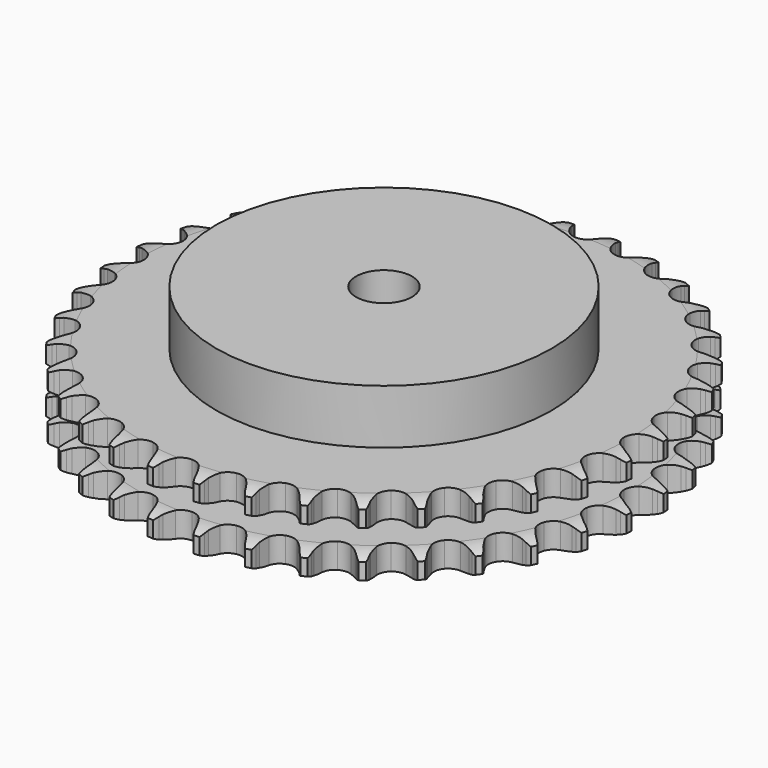
from build123d import *

# Parameters (mm, degrees)
PAD_DEPTH         = 25.5
SKETCH001_R       = 60
PAD001_DEPTH      = 45
SKETCH002_R       = 10
POCKET_DEPTH      = 0.001
POCKET_DEPTH_BACK = 45.001


with BuildPart() as part:
    # Sprocket → Pad (new body)
    with BuildSketch(Plane.XY):
        with BuildLine():
            ThreePointArc((-8.372787, 95.701394), (-7.235012, 94.299793), (-6.429379, 92.684252))
            Line((-6.429379, 92.684252), (-5.933775, 91.338848))
            ThreePointArc((-5.933775, 91.338848), (-5.149699, 89.605003), (-4.125721, 88.001114))
            ThreePointArc((-4.125721, 88.001114), (-2.308399, 86.476199), (0, 85.929099))
            ThreePointArc((0, 85.929099), (2.308399, 86.476199), (4.125721, 88.001114))
            ThreePointArc((4.125721, 88.001114), (5.149699, 89.605003), (5.933775, 91.338848))
            Line((5.933775, 91.338848), (6.429379, 92.684252))
            ThreePointArc((6.429379, 92.684252), (7.235012, 94.299793), (8.372787, 95.701394))
            ThreePointArc((8.372787, 95.701394), (9.249892, 94.123514), (9.762749, 92.39262))
            Line((9.762749, 92.39262), (10.017197, 90.981595))
            ThreePointArc((10.017197, 90.981595), (10.488282, 89.137938), (11.218191, 87.380603))
            ThreePointArc((11.218191, 87.380603), (12.743106, 85.563281), (14.921431, 84.623643))
            ThreePointArc((14.921431, 84.623643), (17.289763, 84.761582), (19.344275, 85.947755))
            Line((19.344275, 85.947755), (21.704452, 88.920817))
            ThreePointArc((21.704452, 88.920817), (22.04856, 89.550022), (22.426154, 90.15972))
            ThreePointArc((22.426154, 90.15972), (23.500083, 91.610821), (24.863958, 92.793556))
            ThreePointArc((24.863958, 92.793556), (25.453742, 91.08734), (25.658241, 89.293685))
            Line((25.658241, 89.293685), (25.663802, 87.859912))
            ThreePointArc((25.663802, 87.859912), (25.807582, 85.962461), (26.221244, 84.105077))
            ThreePointArc((26.221244, 84.105077), (27.407417, 82.050565), (29.389483, 80.74694))
            ThreePointArc((29.389483, 80.74694), (31.745787, 80.471528), (33.975063, 81.282918))
            Line((33.975063, 81.282918), (36.81565, 83.800971))
            ThreePointArc((36.81565, 83.800971), (37.263791, 84.360863), (37.741521, 84.89573))
            ThreePointArc((37.741521, 84.89573), (39.051116, 86.1383), (40.599651, 87.066232))
            ThreePointArc((40.599651, 87.066232), (40.884193, 85.283522), (40.77412, 83.481606))
            Line((40.77412, 83.481606), (40.530625, 82.06865))
            ThreePointArc((40.530625, 82.06865), (40.342732, 80.175059), (40.427578, 78.27406))
            ThreePointArc((40.427578, 78.27406), (41.238968, 76.044785), (42.964549, 74.416783))
            ThreePointArc((42.964549, 74.416783), (45.237232, 73.736386), (47.573536, 74.14834))
            Line((47.573536, 74.14834), (50.808224, 76.134876))
            ThreePointArc((50.808224, 76.134876), (51.34678, 76.608443), (51.910132, 77.052227))
            ThreePointArc((51.910132, 77.052227), (53.415601, 78.048511), (55.101743, 78.693445))
            ThreePointArc((55.101743, 78.693445), (55.072398, 76.888408), (54.651099, 75.132981))
            Line((54.651099, 75.132981), (54.165945, 73.783774))
            ThreePointArc((54.165945, 73.783774), (53.652088, 71.951577), (53.40554, 70.064726))
            ThreePointArc((53.40554, 70.064726), (53.817494, 67.728422), (55.23416, 65.825509))
            ThreePointArc((55.23416, 65.825509), (57.354165, 64.760802), (59.726511, 64.760802))
            Line((59.726511, 64.760802), (63.257015, 66.155461))
            ThreePointArc((63.257015, 66.155461), (63.869624, 66.528314), (64.501479, 66.867531))
            ThreePointArc((64.501479, 66.867531), (66.157079, 67.587257), (67.929597, 67.929597))
            ThreePointArc((67.929597, 67.929597), (67.587257, 66.157079), (66.867531, 64.501479))
            Line((66.867531, 64.501479), (66.155461, 63.257015))
            ThreePointArc((66.155461, 63.257015), (65.331252, 61.541884), (64.760802, 59.726511))
            ThreePointArc((64.760802, 59.726511), (64.760802, 57.354165), (65.825509, 55.23416))
            ThreePointArc((65.825509, 55.23416), (67.728422, 53.817494), (70.064726, 53.40554))
            Line((70.064726, 53.40554), (73.783774, 54.165945))
            ThreePointArc((73.783774, 54.165945), (74.451821, 54.426755), (75.132981, 54.651099))
            ThreePointArc((75.132981, 54.651099), (76.888408, 55.072398), (78.693445, 55.101743))
            ThreePointArc((78.693445, 55.101743), (78.048511, 53.415601), (77.052227, 51.910132))
            Line((77.052227, 51.910132), (76.134876, 50.808224))
            ThreePointArc((76.134876, 50.808224), (75.02536, 49.262272), (74.14834, 47.573536))
            ThreePointArc((74.14834, 47.573536), (73.736386, 45.237232), (74.416783, 42.964549))
            ThreePointArc((74.416783, 42.964549), (76.044785, 41.238968), (78.27406, 40.427578))
            Line((78.27406, 40.427578), (82.06865, 40.530625))
            ThreePointArc((82.06865, 40.530625), (82.771838, 40.671468), (83.481606, 40.77412))
            ThreePointArc((83.481606, 40.77412), (85.283522, 40.884193), (87.066232, 40.599651))
            ThreePointArc((87.066232, 40.599651), (86.1383, 39.051116), (84.89573, 37.741521))
            Line((84.89573, 37.741521), (83.800971, 36.81565))
            ThreePointArc((83.800971, 36.81565), (82.43986, 35.48585), (81.282918, 33.975063))
            ThreePointArc((81.282918, 33.975063), (80.471528, 31.745787), (80.74694, 29.389483))
            ThreePointArc((80.74694, 29.389483), (82.050565, 27.407417), (84.105077, 26.221244))
            Line((84.105077, 26.221244), (87.859912, 25.663802))
            ThreePointArc((87.859912, 25.663802), (88.576874, 25.680398), (89.293685, 25.658241))
            ThreePointArc((89.293685, 25.658241), (91.08734, 25.453742), (92.793556, 24.863958))
            ThreePointArc((92.793556, 24.863958), (91.610821, 23.500083), (90.15972, 22.426154))
            Line((90.15972, 22.426154), (88.920817, 21.704452))
            ThreePointArc((88.920817, 21.704452), (87.349466, 20.631209), (85.947755, 19.344275))
            ThreePointArc((85.947755, 19.344275), (84.761582, 17.289763), (84.623643, 14.921431))
            ThreePointArc((84.623643, 14.921431), (85.563281, 12.743106), (87.380603, 11.218191))
            Line((87.380603, 11.218191), (90.981595, 10.017197))
            ThreePointArc((90.981595, 10.017197), (91.690546, 9.909042), (92.39262, 9.762749))
            ThreePointArc((92.39262, 9.762749), (94.123514, 9.249892), (95.701394, 8.372787))
            ThreePointArc((95.701394, 8.372787), (94.299793, 7.235012), (92.684252, 6.429379))
            Line((92.684252, 6.429379), (91.338848, 5.933775))
            ThreePointArc((91.338848, 5.933775), (89.605003, 5.149699), (88.001114, 4.125721))
            ThreePointArc((88.001114, 4.125721), (86.476199, 2.308399), (85.929099, 0))
            ThreePointArc((85.929099, 0), (86.476199, -2.308399), (88.001114, -4.125721))
            Line((88.001114, -4.125721), (91.338848, -5.933775))
            ThreePointArc((91.338848, -5.933775), (92.018248, -6.163395), (92.684252, -6.429379))
            ThreePointArc((92.684252, -6.429379), (94.299793, -7.235012), (95.701394, -8.372787))
            ThreePointArc((95.701394, -8.372787), (94.123514, -9.249892), (92.39262, -9.762749))
            Line((92.39262, -9.762749), (90.981595, -10.017197))
            ThreePointArc((90.981595, -10.017197), (89.137938, -10.488282), (87.380603, -11.218191))
            ThreePointArc((87.380603, -11.218191), (85.563281, -12.743106), (84.623643, -14.921431))
            ThreePointArc((84.623643, -14.921431), (84.761582, -17.289763), (85.947755, -19.344275))
            Line((85.947755, -19.344275), (88.920817, -21.704452))
            ThreePointArc((88.920817, -21.704452), (89.550022, -22.04856), (90.15972, -22.426154))
            ThreePointArc((90.15972, -22.426154), (91.610821, -23.500083), (92.793556, -24.863958))
            ThreePointArc((92.793556, -24.863958), (91.08734, -25.453742), (89.293685, -25.658241))
            Line((89.293685, -25.658241), (87.859912, -25.663802))
            ThreePointArc((87.859912, -25.663802), (85.962461, -25.807582), (84.105077, -26.221244))
            ThreePointArc((84.105077, -26.221244), (82.050565, -27.407417), (80.74694, -29.389483))
            ThreePointArc((80.74694, -29.389483), (80.471528, -31.745787), (81.282918, -33.975063))
            Line((81.282918, -33.975063), (83.800971, -36.81565))
            ThreePointArc((83.800971, -36.81565), (84.360863, -37.263791), (84.89573, -37.741521))
            ThreePointArc((84.89573, -37.741521), (86.1383, -39.051116), (87.066232, -40.599651))
            ThreePointArc((87.066232, -40.599651), (85.283522, -40.884193), (83.481606, -40.77412))
            Line((83.481606, -40.77412), (82.06865, -40.530625))
            ThreePointArc((82.06865, -40.530625), (80.175059, -40.342732), (78.27406, -40.427578))
            ThreePointArc((78.27406, -40.427578), (76.044785, -41.238968), (74.416783, -42.964549))
            ThreePointArc((74.416783, -42.964549), (73.736386, -45.237232), (74.14834, -47.573536))
            Line((74.14834, -47.573536), (76.134876, -50.808224))
            ThreePointArc((76.134876, -50.808224), (76.608443, -51.34678), (77.052227, -51.910132))
            ThreePointArc((77.052227, -51.910132), (78.048511, -53.415601), (78.693445, -55.101743))
            ThreePointArc((78.693445, -55.101743), (76.888408, -55.072398), (75.132981, -54.651099))
            Line((75.132981, -54.651099), (73.783774, -54.165945))
            ThreePointArc((73.783774, -54.165945), (71.951577, -53.652088), (70.064726, -53.40554))
            ThreePointArc((70.064726, -53.40554), (67.728422, -53.817494), (65.825509, -55.23416))
            ThreePointArc((65.825509, -55.23416), (64.760802, -57.354165), (64.760802, -59.726511))
            Line((64.760802, -59.726511), (66.155461, -63.257015))
            ThreePointArc((66.155461, -63.257015), (66.528314, -63.869624), (66.867531, -64.501479))
            ThreePointArc((66.867531, -64.501479), (67.587257, -66.157079), (67.929597, -67.929597))
            ThreePointArc((67.929597, -67.929597), (66.157079, -67.587257), (64.501479, -66.867531))
            Line((64.501479, -66.867531), (63.257015, -66.155461))
            ThreePointArc((63.257015, -66.155461), (61.541884, -65.331252), (59.726511, -64.760802))
            ThreePointArc((59.726511, -64.760802), (57.354165, -64.760802), (55.23416, -65.825509))
            ThreePointArc((55.23416, -65.825509), (53.817494, -67.728422), (53.40554, -70.064726))
            Line((53.40554, -70.064726), (54.165945, -73.783774))
            ThreePointArc((54.165945, -73.783774), (54.426755, -74.451821), (54.651099, -75.132981))
            ThreePointArc((54.651099, -75.132981), (55.072398, -76.888408), (55.101743, -78.693445))
            ThreePointArc((55.101743, -78.693445), (53.415601, -78.048511), (51.910132, -77.052227))
            Line((51.910132, -77.052227), (50.808224, -76.134876))
            ThreePointArc((50.808224, -76.134876), (49.262272, -75.02536), (47.573536, -74.14834))
            ThreePointArc((47.573536, -74.14834), (45.237232, -73.736386), (42.964549, -74.416783))
            ThreePointArc((42.964549, -74.416783), (41.238968, -76.044785), (40.427578, -78.27406))
            Line((40.427578, -78.27406), (40.530625, -82.06865))
            ThreePointArc((40.530625, -82.06865), (40.671468, -82.771838), (40.77412, -83.481606))
            ThreePointArc((40.77412, -83.481606), (40.884193, -85.283522), (40.599651, -87.066232))
            ThreePointArc((40.599651, -87.066232), (39.051116, -86.1383), (37.741521, -84.89573))
            Line((37.741521, -84.89573), (36.81565, -83.800971))
            ThreePointArc((36.81565, -83.800971), (35.48585, -82.43986), (33.975063, -81.282918))
            ThreePointArc((33.975063, -81.282918), (31.745787, -80.471528), (29.389483, -80.74694))
            ThreePointArc((29.389483, -80.74694), (27.407417, -82.050565), (26.221244, -84.105077))
            Line((26.221244, -84.105077), (25.663802, -87.859912))
            ThreePointArc((25.663802, -87.859912), (25.680398, -88.576874), (25.658241, -89.293685))
            ThreePointArc((25.658241, -89.293685), (25.453742, -91.08734), (24.863958, -92.793556))
            ThreePointArc((24.863958, -92.793556), (23.500083, -91.610821), (22.426154, -90.15972))
            Line((22.426154, -90.15972), (21.704452, -88.920817))
            ThreePointArc((21.704452, -88.920817), (20.631209, -87.349466), (19.344275, -85.947755))
            ThreePointArc((19.344275, -85.947755), (17.289763, -84.761582), (14.921431, -84.623643))
            ThreePointArc((14.921431, -84.623643), (12.743106, -85.563281), (11.218191, -87.380603))
            Line((11.218191, -87.380603), (10.017197, -90.981595))
            ThreePointArc((10.017197, -90.981595), (9.909042, -91.690546), (9.762749, -92.39262))
            ThreePointArc((9.762749, -92.39262), (9.249892, -94.123514), (8.372787, -95.701394))
            ThreePointArc((8.372787, -95.701394), (7.235012, -94.299793), (6.429379, -92.684252))
            Line((6.429379, -92.684252), (5.933775, -91.338848))
            ThreePointArc((5.933775, -91.338848), (5.149699, -89.605003), (4.125721, -88.001114))
            ThreePointArc((4.125721, -88.001114), (2.308399, -86.476199), (0, -85.929099))
            ThreePointArc((0, -85.929099), (-2.308399, -86.476199), (-4.125721, -88.001114))
            Line((-4.125721, -88.001114), (-5.933775, -91.338848))
            ThreePointArc((-5.933775, -91.338848), (-6.163395, -92.018248), (-6.429379, -92.684252))
            ThreePointArc((-6.429379, -92.684252), (-7.235012, -94.299793), (-8.372787, -95.701394))
            ThreePointArc((-8.372787, -95.701394), (-9.249892, -94.123514), (-9.762749, -92.39262))
            Line((-9.762749, -92.39262), (-10.017197, -90.981595))
            ThreePointArc((-10.017197, -90.981595), (-10.488282, -89.137938), (-11.218191, -87.380603))
            ThreePointArc((-11.218191, -87.380603), (-12.743106, -85.563281), (-14.921431, -84.623643))
            ThreePointArc((-14.921431, -84.623643), (-17.289763, -84.761582), (-19.344275, -85.947755))
            Line((-19.344275, -85.947755), (-21.704452, -88.920817))
            ThreePointArc((-21.704452, -88.920817), (-22.04856, -89.550022), (-22.426154, -90.15972))
            ThreePointArc((-22.426154, -90.15972), (-23.500083, -91.610821), (-24.863958, -92.793556))
            ThreePointArc((-24.863958, -92.793556), (-25.453742, -91.08734), (-25.658241, -89.293685))
            Line((-25.658241, -89.293685), (-25.663802, -87.859912))
            ThreePointArc((-25.663802, -87.859912), (-25.807582, -85.962461), (-26.221244, -84.105077))
            ThreePointArc((-26.221244, -84.105077), (-27.407417, -82.050565), (-29.389483, -80.74694))
            ThreePointArc((-29.389483, -80.74694), (-31.745787, -80.471528), (-33.975063, -81.282918))
            Line((-33.975063, -81.282918), (-36.81565, -83.800971))
            ThreePointArc((-36.81565, -83.800971), (-37.263791, -84.360863), (-37.741521, -84.89573))
            ThreePointArc((-37.741521, -84.89573), (-39.051116, -86.1383), (-40.599651, -87.066232))
            ThreePointArc((-40.599651, -87.066232), (-40.884193, -85.283522), (-40.77412, -83.481606))
            Line((-40.77412, -83.481606), (-40.530625, -82.06865))
            ThreePointArc((-40.530625, -82.06865), (-40.342732, -80.175059), (-40.427578, -78.27406))
            ThreePointArc((-40.427578, -78.27406), (-41.238968, -76.044785), (-42.964549, -74.416783))
            ThreePointArc((-42.964549, -74.416783), (-45.237232, -73.736386), (-47.573536, -74.14834))
            Line((-47.573536, -74.14834), (-50.808224, -76.134876))
            ThreePointArc((-50.808224, -76.134876), (-51.34678, -76.608443), (-51.910132, -77.052227))
            ThreePointArc((-51.910132, -77.052227), (-53.415601, -78.048511), (-55.101743, -78.693445))
            ThreePointArc((-55.101743, -78.693445), (-55.072398, -76.888408), (-54.651099, -75.132981))
            Line((-54.651099, -75.132981), (-54.165945, -73.783774))
            ThreePointArc((-54.165945, -73.783774), (-53.652088, -71.951577), (-53.40554, -70.064726))
            ThreePointArc((-53.40554, -70.064726), (-53.817494, -67.728422), (-55.23416, -65.825509))
            ThreePointArc((-55.23416, -65.825509), (-57.354165, -64.760802), (-59.726511, -64.760802))
            Line((-59.726511, -64.760802), (-63.257015, -66.155461))
            ThreePointArc((-63.257015, -66.155461), (-63.869624, -66.528314), (-64.501479, -66.867531))
            ThreePointArc((-64.501479, -66.867531), (-66.157079, -67.587257), (-67.929597, -67.929597))
            ThreePointArc((-67.929597, -67.929597), (-67.587257, -66.157079), (-66.867531, -64.501479))
            Line((-66.867531, -64.501479), (-66.155461, -63.257015))
            ThreePointArc((-66.155461, -63.257015), (-65.331252, -61.541884), (-64.760802, -59.726511))
            ThreePointArc((-64.760802, -59.726511), (-64.760802, -57.354165), (-65.825509, -55.23416))
            ThreePointArc((-65.825509, -55.23416), (-67.728422, -53.817494), (-70.064726, -53.40554))
            Line((-70.064726, -53.40554), (-73.783774, -54.165945))
            ThreePointArc((-73.783774, -54.165945), (-74.451821, -54.426755), (-75.132981, -54.651099))
            ThreePointArc((-75.132981, -54.651099), (-76.888408, -55.072398), (-78.693445, -55.101743))
            ThreePointArc((-78.693445, -55.101743), (-78.048511, -53.415601), (-77.052227, -51.910132))
            Line((-77.052227, -51.910132), (-76.134876, -50.808224))
            ThreePointArc((-76.134876, -50.808224), (-75.02536, -49.262272), (-74.14834, -47.573536))
            ThreePointArc((-74.14834, -47.573536), (-73.736386, -45.237232), (-74.416783, -42.964549))
            ThreePointArc((-74.416783, -42.964549), (-76.044785, -41.238968), (-78.27406, -40.427578))
            Line((-78.27406, -40.427578), (-82.06865, -40.530625))
            ThreePointArc((-82.06865, -40.530625), (-82.771838, -40.671468), (-83.481606, -40.77412))
            ThreePointArc((-83.481606, -40.77412), (-85.283522, -40.884193), (-87.066232, -40.599651))
            ThreePointArc((-87.066232, -40.599651), (-86.1383, -39.051116), (-84.89573, -37.741521))
            Line((-84.89573, -37.741521), (-83.800971, -36.81565))
            ThreePointArc((-83.800971, -36.81565), (-82.43986, -35.48585), (-81.282918, -33.975063))
            ThreePointArc((-81.282918, -33.975063), (-80.471528, -31.745787), (-80.74694, -29.389483))
            ThreePointArc((-80.74694, -29.389483), (-82.050565, -27.407417), (-84.105077, -26.221244))
            Line((-84.105077, -26.221244), (-87.859912, -25.663802))
            ThreePointArc((-87.859912, -25.663802), (-88.576874, -25.680398), (-89.293685, -25.658241))
            ThreePointArc((-89.293685, -25.658241), (-91.08734, -25.453742), (-92.793556, -24.863958))
            ThreePointArc((-92.793556, -24.863958), (-91.610821, -23.500083), (-90.15972, -22.426154))
            Line((-90.15972, -22.426154), (-88.920817, -21.704452))
            ThreePointArc((-88.920817, -21.704452), (-87.349466, -20.631209), (-85.947755, -19.344275))
            ThreePointArc((-85.947755, -19.344275), (-84.761582, -17.289763), (-84.623643, -14.921431))
            ThreePointArc((-84.623643, -14.921431), (-85.563281, -12.743106), (-87.380603, -11.218191))
            Line((-87.380603, -11.218191), (-90.981595, -10.017197))
            ThreePointArc((-90.981595, -10.017197), (-91.690546, -9.909042), (-92.39262, -9.762749))
            ThreePointArc((-92.39262, -9.762749), (-94.123514, -9.249892), (-95.701394, -8.372787))
            ThreePointArc((-95.701394, -8.372787), (-94.299793, -7.235012), (-92.684252, -6.429379))
            Line((-92.684252, -6.429379), (-91.338848, -5.933775))
            ThreePointArc((-91.338848, -5.933775), (-89.605003, -5.149699), (-88.001114, -4.125721))
            ThreePointArc((-88.001114, -4.125721), (-86.476199, -2.308399), (-85.929099, 0))
            ThreePointArc((-85.929099, 0), (-86.476199, 2.308399), (-88.001114, 4.125721))
            Line((-88.001114, 4.125721), (-91.338848, 5.933775))
            ThreePointArc((-91.338848, 5.933775), (-92.018248, 6.163395), (-92.684252, 6.429379))
            ThreePointArc((-92.684252, 6.429379), (-94.299793, 7.235012), (-95.701394, 8.372787))
            ThreePointArc((-95.701394, 8.372787), (-94.123514, 9.249892), (-92.39262, 9.762749))
            Line((-92.39262, 9.762749), (-90.981595, 10.017197))
            ThreePointArc((-90.981595, 10.017197), (-89.137938, 10.488282), (-87.380603, 11.218191))
            ThreePointArc((-87.380603, 11.218191), (-85.563281, 12.743106), (-84.623643, 14.921431))
            ThreePointArc((-84.623643, 14.921431), (-84.761582, 17.289763), (-85.947755, 19.344275))
            Line((-85.947755, 19.344275), (-88.920817, 21.704452))
            ThreePointArc((-88.920817, 21.704452), (-89.550022, 22.04856), (-90.15972, 22.426154))
            ThreePointArc((-90.15972, 22.426154), (-91.610821, 23.500083), (-92.793556, 24.863958))
            ThreePointArc((-92.793556, 24.863958), (-91.08734, 25.453742), (-89.293685, 25.658241))
            Line((-89.293685, 25.658241), (-87.859912, 25.663802))
            ThreePointArc((-87.859912, 25.663802), (-85.962461, 25.807582), (-84.105077, 26.221244))
            ThreePointArc((-84.105077, 26.221244), (-82.050565, 27.407417), (-80.74694, 29.389483))
            ThreePointArc((-80.74694, 29.389483), (-80.471528, 31.745787), (-81.282918, 33.975063))
            Line((-81.282918, 33.975063), (-83.800971, 36.81565))
            ThreePointArc((-83.800971, 36.81565), (-84.360863, 37.263791), (-84.89573, 37.741521))
            ThreePointArc((-84.89573, 37.741521), (-86.1383, 39.051116), (-87.066232, 40.599651))
            ThreePointArc((-87.066232, 40.599651), (-85.283522, 40.884193), (-83.481606, 40.77412))
            Line((-83.481606, 40.77412), (-82.06865, 40.530625))
            ThreePointArc((-82.06865, 40.530625), (-80.175059, 40.342732), (-78.27406, 40.427578))
            ThreePointArc((-78.27406, 40.427578), (-76.044785, 41.238968), (-74.416783, 42.964549))
            ThreePointArc((-74.416783, 42.964549), (-73.736386, 45.237232), (-74.14834, 47.573536))
            Line((-74.14834, 47.573536), (-76.134876, 50.808224))
            ThreePointArc((-76.134876, 50.808224), (-76.608443, 51.34678), (-77.052227, 51.910132))
            ThreePointArc((-77.052227, 51.910132), (-78.048511, 53.415601), (-78.693445, 55.101743))
            ThreePointArc((-78.693445, 55.101743), (-76.888408, 55.072398), (-75.132981, 54.651099))
            Line((-75.132981, 54.651099), (-73.783774, 54.165945))
            ThreePointArc((-73.783774, 54.165945), (-71.951577, 53.652088), (-70.064726, 53.40554))
            ThreePointArc((-70.064726, 53.40554), (-67.728422, 53.817494), (-65.825509, 55.23416))
            ThreePointArc((-65.825509, 55.23416), (-64.760802, 57.354165), (-64.760802, 59.726511))
            Line((-64.760802, 59.726511), (-66.155461, 63.257015))
            ThreePointArc((-66.155461, 63.257015), (-66.528314, 63.869624), (-66.867531, 64.501479))
            ThreePointArc((-66.867531, 64.501479), (-67.587257, 66.157079), (-67.929597, 67.929597))
            ThreePointArc((-67.929597, 67.929597), (-66.157079, 67.587257), (-64.501479, 66.867531))
            Line((-64.501479, 66.867531), (-63.257015, 66.155461))
            ThreePointArc((-63.257015, 66.155461), (-61.541884, 65.331252), (-59.726511, 64.760802))
            ThreePointArc((-59.726511, 64.760802), (-57.354165, 64.760802), (-55.23416, 65.825509))
            ThreePointArc((-55.23416, 65.825509), (-53.817494, 67.728422), (-53.40554, 70.064726))
            Line((-53.40554, 70.064726), (-54.165945, 73.783774))
            ThreePointArc((-54.165945, 73.783774), (-54.426755, 74.451821), (-54.651099, 75.132981))
            ThreePointArc((-54.651099, 75.132981), (-55.072398, 76.888408), (-55.101743, 78.693445))
            ThreePointArc((-55.101743, 78.693445), (-53.415601, 78.048511), (-51.910132, 77.052227))
            Line((-51.910132, 77.052227), (-50.808224, 76.134876))
            ThreePointArc((-50.808224, 76.134876), (-49.262272, 75.02536), (-47.573536, 74.14834))
            ThreePointArc((-47.573536, 74.14834), (-45.237232, 73.736386), (-42.964549, 74.416783))
            ThreePointArc((-42.964549, 74.416783), (-41.238968, 76.044785), (-40.427578, 78.27406))
            Line((-40.427578, 78.27406), (-40.530625, 82.06865))
            ThreePointArc((-40.530625, 82.06865), (-40.671468, 82.771838), (-40.77412, 83.481606))
            ThreePointArc((-40.77412, 83.481606), (-40.884193, 85.283522), (-40.599651, 87.066232))
            ThreePointArc((-40.599651, 87.066232), (-39.051116, 86.1383), (-37.741521, 84.89573))
            Line((-37.741521, 84.89573), (-36.81565, 83.800971))
            ThreePointArc((-36.81565, 83.800971), (-35.48585, 82.43986), (-33.975063, 81.282918))
            ThreePointArc((-33.975063, 81.282918), (-31.745787, 80.471528), (-29.389483, 80.74694))
            ThreePointArc((-29.389483, 80.74694), (-27.407417, 82.050565), (-26.221244, 84.105077))
            Line((-26.221244, 84.105077), (-25.663802, 87.859912))
            ThreePointArc((-25.663802, 87.859912), (-25.680398, 88.576874), (-25.658241, 89.293685))
            ThreePointArc((-25.658241, 89.293685), (-25.453742, 91.08734), (-24.863958, 92.793556))
            ThreePointArc((-24.863958, 92.793556), (-23.500083, 91.610821), (-22.426154, 90.15972))
            Line((-22.426154, 90.15972), (-21.704452, 88.920817))
            ThreePointArc((-21.704452, 88.920817), (-20.631209, 87.349466), (-19.344275, 85.947755))
            ThreePointArc((-19.344275, 85.947755), (-17.289763, 84.761582), (-14.921431, 84.623643))
            ThreePointArc((-14.921431, 84.623643), (-12.743106, 85.563281), (-11.218191, 87.380603))
            Line((-11.218191, 87.380603), (-10.017197, 90.981595))
            ThreePointArc((-10.017197, 90.981595), (-9.909042, 91.690546), (-9.762749, 92.39262))
            ThreePointArc((-9.762749, 92.39262), (-9.249892, 94.123514), (-8.372787, 95.701394))
        make_face()
    extrude(amount=PAD_DEPTH)

    # Sketch → Groove (revolve, cut)
    with BuildSketch(Plane.XZ):
        with BuildLine():
            ThreePointArc((87.575762, 0), (91.15347, 0.405129), (94.55, 1.6))
            Line((94.55, 1.6), (94.55, 7.4))
            ThreePointArc((94.55, 7.4), (91.15347, 8.594871), (87.575762, 9))
            Line((60, 9), (87.575762, 9))
            Line((60, 16.5), (60, 9))
            Line((87.575762, 16.5), (60, 16.5))
            ThreePointArc((87.575762, 16.5), (91.15347, 16.905129), (94.55, 18.1))
            Line((94.55, 18.1), (94.55, 23.9))
            ThreePointArc((94.55, 23.9), (91.15347, 25.094871), (87.575762, 25.5))
            Line((87.575762, 25.5), (97.575762, 25.5))
            Line((97.575762, 25.5), (97.575762, 0))
            Line((87.575762, 0), (97.575762, 0))
        make_face()
    revolve(axis=Axis((0, 0, 0), (0, 0, 1)), mode=Mode.SUBTRACT)

    # Sketch001 → Pad001 (join)
    with BuildSketch(Plane.XY):
        Circle(SKETCH001_R)
    extrude(amount=PAD001_DEPTH)

    # Sketch002 → Pocket (cut, two sides)
    with BuildSketch(Plane.XY) as pocket_sk:
        Circle(SKETCH002_R)
    extrude(amount=-POCKET_DEPTH, mode=Mode.SUBTRACT)
    extrude(pocket_sk.sketch, amount=POCKET_DEPTH_BACK, mode=Mode.SUBTRACT)


solid = part.part
